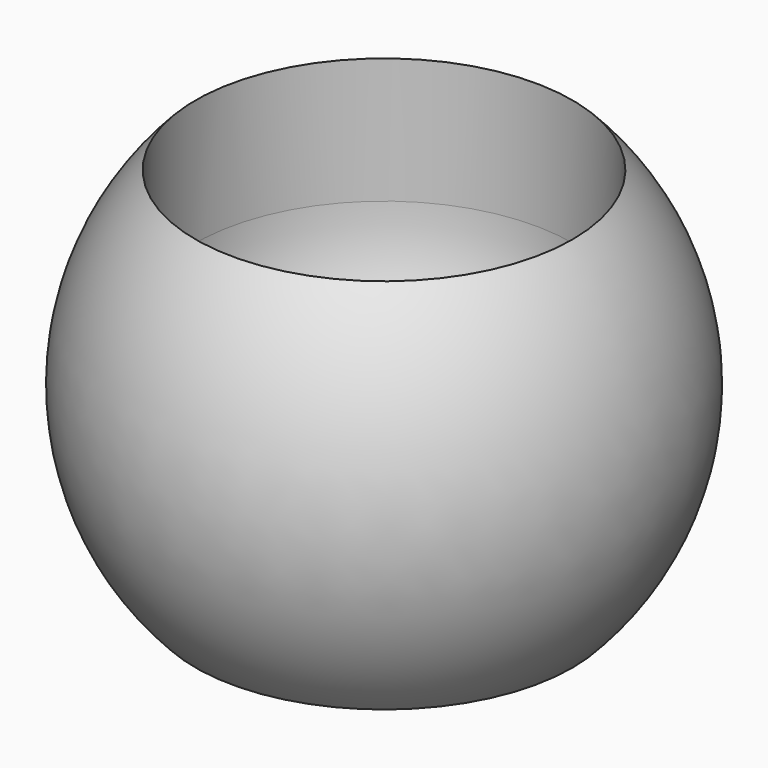
from build123d import *

# Parameters (mm, degrees)
F2_DEPTH = 63.5
F3_R     = 38.1


with BuildPart() as f1:
    # F0 (on Front) → F1 (revolve)
    with BuildSketch(Plane.XZ):
        with BuildLine():
            Line((0, -38.1), (38.1, -38.1))
            ThreePointArc((38.1, -38.1), (53.3464349177, 0), (38.1, 38.1))
            Line((38.1, 38.1), (0, 38.1))
            Line((0, 38.1), (0, -38.1))
        make_face()
    revolve(axis=Axis((0, 0, 0), (0, 0, -1)))

    # F2 (cut): a face of the model
    f2_faces = [f1.faces().sort_by_distance(p)[0] for p in [
        (0, 0, 38.1),
    ]]
    extrude(f2_faces, amount=-F2_DEPTH, mode=Mode.SUBTRACT)

    # F3
    f3_edges = [f1.edges().sort_by_distance(p)[0] for p in [
        (-38.1, 0, -25.4),
    ]]
    fillet(f3_edges, radius=F3_R)


solid = f1.part
